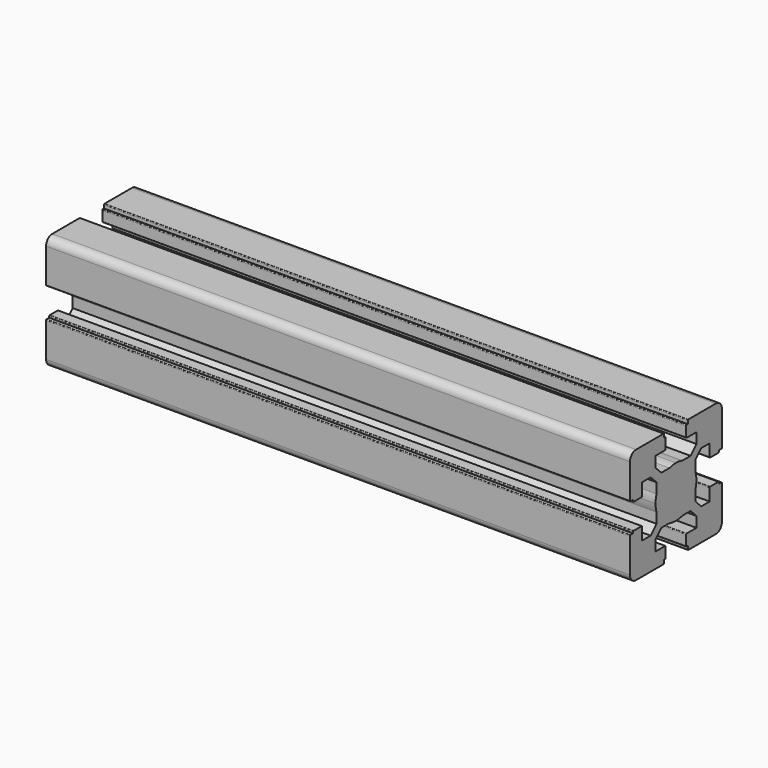
from build123d import *

# Parameters (mm, degrees)
F1_DEPTH = 228.6


with BuildPart() as f1:
    # F0 (on Right) → F1 (new body)
    with BuildSketch(Plane.YZ):
        with BuildLine():
            Line((-20.088481, -9.788837), (-20.088481, -10.288837))
            Line((-20.088481, -10.288837), (-21.28859, -10.288837))
            ThreePointArc((-21.28859, -10.288837), (-21.500722, -10.376705), (-21.58859, -10.588837))
            Line((-21.58859, -10.588837), (-21.58859, -23.988949))
            ThreePointArc((-21.58859, -23.988949), (-20.70991, -26.11027), (-18.58859, -26.988949))
            Line((-18.58859, -26.988949), (-5.188544, -26.988949))
            ThreePointArc((-5.188544, -26.988949), (-4.976411, -26.901081), (-4.888544, -26.688949))
            Line((-4.888544, -26.688949), (-4.888544, -25.488841))
            Line((-4.888544, -25.488841), (-4.388544, -25.488841))
            ThreePointArc((-4.388544, -25.488841), (-4.176411, -25.400973), (-4.088544, -25.188841))
            Line((-4.088544, -25.188841), (-4.088544, -21.288841))
            ThreePointArc((-4.088544, -21.288841), (-4.176411, -21.076709), (-4.388544, -20.988841))
            Line((-4.388544, -20.988841), (-9.138663, -20.988841))
            Line((-9.138663, -20.988841), (-9.138663, -16.881665))
            Line((-9.138663, -16.881665), (-6.245729, -13.988731))
            Line((-6.245729, -13.988731), (-2.211433, -13.988731))
            ThreePointArc((-2.211433, -13.988731), (-0.669869, -14.363044), (0.91149, -14.48887))
            Line((0.91149, -14.48887), (0.91149, -4.48887))
            Line((0.91149, -4.48887), (-9.08851, -4.48887))
            ThreePointArc((-9.08851, -4.48887), (-8.962684, -6.070229), (-8.588371, -7.611793))
            Line((-8.588371, -7.611793), (-8.588371, -11.646022))
            Line((-8.588371, -11.646022), (-11.481305, -14.538956))
            Line((-11.481305, -14.538956), (-15.588481, -14.538956))
            Line((-15.588481, -14.538956), (-15.588481, -9.788837))
            ThreePointArc((-15.588481, -9.788837), (-15.676349, -9.576705), (-15.888481, -9.488837))
            Line((-15.888481, -9.488837), (-19.788481, -9.488837))
            ThreePointArc((-19.788481, -9.488837), (-20.000613, -9.576705), (-20.088481, -9.788837))
        make_face()
        with BuildLine():
            ThreePointArc((-8.588371, -1.365947), (-8.962684, -2.907511), (-9.08851, -4.48887))
            Line((-9.08851, -4.48887), (0.91149, -4.48887))
            Line((0.91149, -4.48887), (0.91149, 5.51113))
            ThreePointArc((0.91149, 5.51113), (-0.669869, 5.385303), (-2.211433, 5.010991))
            Line((-2.211433, 5.010991), (-6.245729, 5.010991))
            Line((-6.245729, 5.010991), (-9.138663, 7.903925))
            Line((-9.138663, 7.903925), (-9.138663, 12.011101))
            Line((-9.138663, 12.011101), (-4.388544, 12.011101))
            ThreePointArc((-4.388544, 12.011101), (-4.176411, 12.098969), (-4.088544, 12.311101))
            Line((-4.088544, 12.311101), (-4.088544, 16.211101))
            ThreePointArc((-4.088544, 16.211101), (-4.176411, 16.423233), (-4.388544, 16.511101))
            Line((-4.388544, 16.511101), (-4.888544, 16.511101))
            Line((-4.888544, 16.511101), (-4.888544, 17.711209))
            ThreePointArc((-4.888544, 17.711209), (-4.976411, 17.923341), (-5.188544, 18.011209))
            Line((-5.188544, 18.011209), (-18.58859, 18.011209))
            ThreePointArc((-18.58859, 18.011209), (-20.70991, 17.13253), (-21.58859, 15.011209))
            Line((-21.58859, 15.011209), (-21.58859, 1.611097))
            ThreePointArc((-21.58859, 1.611097), (-21.500722, 1.398965), (-21.28859, 1.311097))
            Line((-21.28859, 1.311097), (-20.088481, 1.311097))
            Line((-20.088481, 1.311097), (-20.088481, 0.811097))
            ThreePointArc((-20.088481, 0.811097), (-20.000613, 0.598965), (-19.788481, 0.511097))
            Line((-19.788481, 0.511097), (-15.888481, 0.511097))
            ThreePointArc((-15.888481, 0.511097), (-15.676349, 0.598965), (-15.588481, 0.811097))
            Line((-15.588481, 0.811097), (-15.588481, 5.561216))
            Line((-15.588481, 5.561216), (-11.481305, 5.561216))
            Line((-11.481305, 5.561216), (-8.588371, 2.668282))
            Line((-8.588371, 2.668282), (-8.588371, -1.365947))
        make_face()
        with BuildLine():
            Line((0.91149, 5.51113), (0.91149, -4.48887))
            Line((0.91149, -4.48887), (10.91149, -4.48887))
            ThreePointArc((10.91149, -4.48887), (10.785663, -2.907511), (10.41135, -1.365947))
            Line((10.41135, -1.365947), (10.41135, 2.668282))
            Line((10.41135, 2.668282), (13.304285, 5.561216))
            Line((13.304285, 5.561216), (14.016842, 5.561216))
            Line((14.016842, 5.561216), (17.41146, 5.561216))
            Line((17.41146, 5.561216), (17.41146, 0.811097))
            ThreePointArc((17.41146, 0.811097), (17.499328, 0.598965), (17.71146, 0.511097))
            Line((17.71146, 0.511097), (21.61146, 0.511097))
            ThreePointArc((21.61146, 0.511097), (21.823593, 0.598965), (21.91146, 0.811097))
            Line((21.91146, 0.811097), (21.91146, 1.311097))
            Line((21.91146, 1.311097), (23.111569, 1.311097))
            ThreePointArc((23.111569, 1.311097), (23.323701, 1.398965), (23.411569, 1.611097))
            Line((23.411569, 1.611097), (23.411569, 15.011209))
            ThreePointArc((23.411569, 15.011209), (22.532889, 17.13253), (20.411569, 18.011209))
            Line((20.411569, 18.011209), (7.011523, 18.011209))
            ThreePointArc((7.011523, 18.011209), (6.799391, 17.923341), (6.711523, 17.711209))
            Line((6.711523, 17.711209), (6.711523, 16.511101))
            Line((6.711523, 16.511101), (6.211523, 16.511101))
            ThreePointArc((6.211523, 16.511101), (5.999391, 16.423233), (5.911523, 16.211101))
            Line((5.911523, 16.211101), (5.911523, 12.311101))
            ThreePointArc((5.911523, 12.311101), (5.999391, 12.098969), (6.211523, 12.011101))
            Line((6.211523, 12.011101), (10.961642, 12.011101))
            Line((10.961642, 12.011101), (10.961642, 7.903925))
            Line((10.961642, 7.903925), (8.068708, 5.010991))
            Line((8.068708, 5.010991), (4.034413, 5.010991))
            ThreePointArc((4.034413, 5.010991), (2.492849, 5.385303), (0.91149, 5.51113))
        make_face()
        with BuildLine():
            Line((10.91149, -4.48887), (0.91149, -4.48887))
            Line((0.91149, -4.48887), (0.91149, -14.48887))
            ThreePointArc((0.91149, -14.48887), (2.492849, -14.363044), (4.034413, -13.988731))
            Line((4.034413, -13.988731), (8.068708, -13.988731))
            Line((8.068708, -13.988731), (10.961642, -16.881665))
            Line((10.961642, -16.881665), (10.961642, -20.988841))
            Line((10.961642, -20.988841), (6.211523, -20.988841))
            ThreePointArc((6.211523, -20.988841), (5.999391, -21.076709), (5.911523, -21.288841))
            Line((5.911523, -21.288841), (5.911523, -25.188841))
            ThreePointArc((5.911523, -25.188841), (5.999391, -25.400973), (6.211523, -25.488841))
            Line((6.211523, -25.488841), (6.711523, -25.488841))
            Line((6.711523, -25.488841), (6.711523, -26.688949))
            ThreePointArc((6.711523, -26.688949), (6.799391, -26.901081), (7.011523, -26.988949))
            Line((7.011523, -26.988949), (20.411569, -26.988949))
            ThreePointArc((20.411569, -26.988949), (22.532889, -26.11027), (23.411569, -23.988949))
            Line((23.411569, -23.988949), (23.411569, -10.588837))
            ThreePointArc((23.411569, -10.588837), (23.323701, -10.376705), (23.111569, -10.288837))
            Line((23.111569, -10.288837), (21.91146, -10.288837))
            Line((21.91146, -10.288837), (21.91146, -9.788837))
            ThreePointArc((21.91146, -9.788837), (21.823593, -9.576705), (21.61146, -9.488837))
            Line((21.61146, -9.488837), (17.71146, -9.488837))
            ThreePointArc((17.71146, -9.488837), (17.499328, -9.576705), (17.41146, -9.788837))
            Line((17.41146, -9.788837), (17.41146, -14.538956))
            Line((17.41146, -14.538956), (13.304285, -14.538956))
            Line((13.304285, -14.538956), (10.41135, -11.646022))
            Line((10.41135, -11.646022), (10.41135, -7.611793))
            ThreePointArc((10.41135, -7.611793), (10.785663, -6.070229), (10.91149, -4.48887))
        make_face()
    extrude(amount=F1_DEPTH)


solid = f1.part
